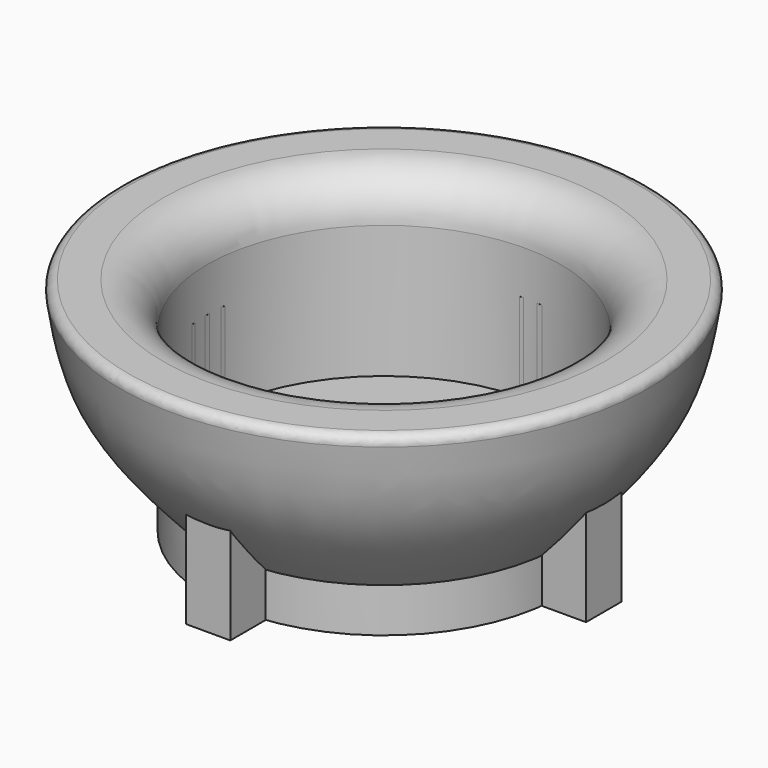
from build123d import *

# Parameters (mm, degrees)
F0_W      = 20
F0_H      = 10
F2_R      = 5
F4_DEPTH  = 20
F5_R      = 1
F1_FACE_R = 20
F6_DEPTH  = 5


with BuildPart() as f1:
    # F0 (on Front) → F1 (revolve)
    with BuildSketch(Plane.XZ):
        with BuildLine():
            add(Edge.make_bspline(
                [(-30, 30), (-29.5085835647, 26.5937616974), (-28.4760111656, 19.436517039), (-22.9146351429, 13.2449230719), (-20, 10)],
                knots=[0, 0, 0, 0, 0.47591475, 1, 1, 1, 1], degree=3))
            Line((-20, 10), (-20, 30))
            Line((-20, 30), (-25, 30))
            Line((-25, 30), (-30, 30))
        make_face()
    revolve(axis=Axis((0, 0, 5), (0, 0, -1)))

    # F2
    f2_edges = [f1.edges().sort_by_distance(p)[0] for p in [
        (20, 0, 30),
    ]]
    fillet(f2_edges, radius=F2_R)

    # F5
    f5_edges = [f1.edges().sort_by_distance(p)[0] for p in [
        (30, 0, 30),
    ]]
    fillet(f5_edges, radius=F5_R)


with BuildPart() as f1b:
    # F0 (on Front) → F1, piece 2 (revolve)
    with BuildSketch(Plane.XZ):
        with Locations((-10, 5)):
            Rectangle(F0_W, F0_H)
    revolve(axis=Axis((0, 0, 5), (0, 0, -1)))


with BuildPart() as f4:
    # F3 (on face) → F4 (new body)
    with BuildSketch(Plane(origin=(0, 0, 0), x_dir=(1, 0, 0), z_dir=(0, 0, -1))):
        with BuildLine():
            Line((24.843134833, 2.5), (19.843134833, 2.5))
            ThreePointArc((19.843134833, 2.5), (19.9607451847, 1.2524582509), (20, 0))
            ThreePointArc((20, 0), (19.9607451847, -1.2524582509), (19.843134833, -2.5))
            Line((19.843134833, -2.5), (24.843134833, -2.5))
            Line((24.843134833, -2.5), (24.843134833, 2.5))
        make_face()
    extrude(amount=-F4_DEPTH)


with BuildPart() as f4b:
    # F3 (on face) → F4, piece 2 (new body)
    with BuildSketch(Plane(origin=(0, 0, 0), x_dir=(1, 0, 0), z_dir=(0, 0, -1))):
        with BuildLine():
            ThreePointArc((2.5, -19.843134833), (0, -20), (-2.5, -19.843134833))
            Line((-2.5, -19.843134833), (-2.5, -24.843134833))
            Line((-2.5, -24.843134833), (2.5, -24.843134833))
            Line((2.5, -24.843134833), (2.5, -19.843134833))
        make_face()
    extrude(amount=-F4_DEPTH)


with BuildPart() as f4c:
    # F3 (on face) → F4, piece 3 (new body)
    with BuildSketch(Plane(origin=(0, 0, 0), x_dir=(1, 0, 0), z_dir=(0, 0, -1))):
        with BuildLine():
            Line((-2.5, 24.843134833), (-2.5, 19.843134833))
            ThreePointArc((-2.5, 19.843134833), (0, 20), (2.5, 19.843134833))
            Line((2.5, 19.843134833), (2.5, 24.843134833))
            Line((2.5, 24.843134833), (-2.5, 24.843134833))
        make_face()
    extrude(amount=-F4_DEPTH)


with BuildPart() as f4d:
    # F3 (on face) → F4, piece 4 (new body)
    with BuildSketch(Plane(origin=(0, 0, 0), x_dir=(1, 0, 0), z_dir=(0, 0, -1))):
        with BuildLine():
            ThreePointArc((-19.843134833, -2.5), (-20, 0), (-19.843134833, 2.5))
            Line((-19.843134833, 2.5), (-24.843134833, 2.5))
            Line((-24.843134833, 2.5), (-24.843134833, -2.5))
            Line((-24.843134833, -2.5), (-19.843134833, -2.5))
        make_face()
    extrude(amount=-F4_DEPTH)


with BuildPart() as f6_tool:
    # F1_face (on face) + F4_face (on face) → F6 (new body)
    with BuildSketch(Plane(origin=(0, 0, 0), x_dir=(1, 0, 0), z_dir=(0, 0, -1))):
        Circle(F1_FACE_R)
    with BuildSketch(Plane(origin=(0, -22.3952412212, 0), x_dir=(1, 0, 0), z_dir=(0, 0, -1))):
        with BuildLine():
            Line((2.5, -2.5521063882), (2.5, 2.4478936118))
            Line((2.5, 2.4478936118), (-2.5, 2.4478936118))
            Line((-2.5, 2.4478936118), (-2.5, -2.5521063882))
            ThreePointArc((-2.5, -2.5521063882), (0, -2.3952412212), (2.5, -2.5521063882))
        make_face()
        with BuildLine():
            Line((-19.843134833, -19.8952412212), (-24.843134833, -19.8952412212))
            Line((-24.843134833, -19.8952412212), (-24.843134833, -24.8952412212))
            Line((-24.843134833, -24.8952412212), (-19.843134833, -24.8952412212))
            ThreePointArc((-19.843134833, -24.8952412212), (-20, -22.3952412212), (-19.843134833, -19.8952412212))
        make_face()
        with BuildLine():
            Line((-2.5, -42.2383760542), (-2.5, -47.2383760542))
            Line((-2.5, -47.2383760542), (2.5, -47.2383760542))
            Line((2.5, -47.2383760542), (2.5, -42.2383760542))
            ThreePointArc((2.5, -42.2383760542), (0, -42.3952412212), (-2.5, -42.2383760542))
        make_face()
        with BuildLine():
            Line((19.843134833, -24.8952412212), (24.843134833, -24.8952412212))
            Line((24.843134833, -24.8952412212), (24.843134833, -19.8952412212))
            Line((24.843134833, -19.8952412212), (19.843134833, -19.8952412212))
            ThreePointArc((19.843134833, -19.8952412212), (20, -22.3952412212), (19.843134833, -24.8952412212))
        make_face()
    extrude(amount=-F6_DEPTH)


with BuildPart() as f1b_1:
    add(f1b.part)

    # F6: cut by f6_tool
    add(f6_tool.part, mode=Mode.SUBTRACT)


with BuildPart() as f4_1:
    add(f4.part)

    # F6: cut by f6_tool
    add(f6_tool.part, mode=Mode.SUBTRACT)


with BuildPart() as f4b_1:
    add(f4b.part)

    # F6: cut by f6_tool
    add(f6_tool.part, mode=Mode.SUBTRACT)


with BuildPart() as f4c_1:
    add(f4c.part)

    # F6: cut by f6_tool
    add(f6_tool.part, mode=Mode.SUBTRACT)


with BuildPart() as f4d_1:
    add(f4d.part)

    # F6: cut by f6_tool
    add(f6_tool.part, mode=Mode.SUBTRACT)


solid = Compound([f1.part, f1b_1.part, f4_1.part, f4b_1.part, f4c_1.part, f4d_1.part])
